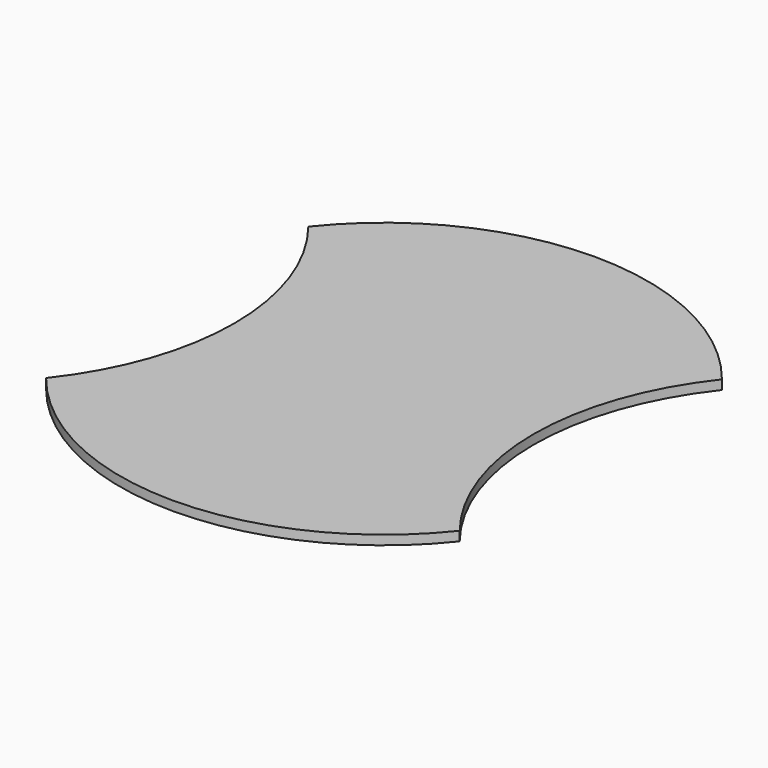
from build123d import *

# Parameters (mm, degrees)
F1_DEPTH      = 2.5
F1_DEPTH_BACK = 2.5


with BuildPart() as f1:
    # F0 (on Top) → F1 (new body, two sides)
    with BuildSketch(Plane.XY) as f1_sk:
        with BuildLine():
            ThreePointArc((-110.5, 87.582818), (-80, 0), (-110.5, -87.582818))
            ThreePointArc((-110.5, -87.582818), (0, -141), (110.5, -87.582818))
            ThreePointArc((110.5, -87.582818), (80, 0), (110.5, 87.582818))
            ThreePointArc((110.5, 87.582818), (0, 141), (-110.5, 87.582818))
        make_face()
    extrude(amount=F1_DEPTH)
    extrude(f1_sk.sketch, amount=-F1_DEPTH_BACK)


solid = f1.part
